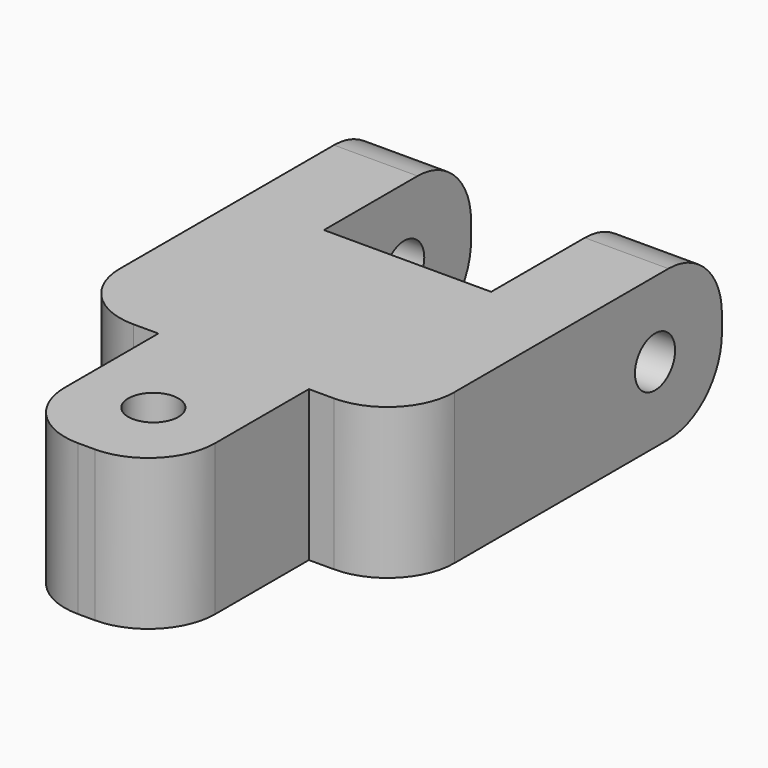
from build123d import *

# Parameters (mm, degrees)
F0_R     = 1.5
F1_DEPTH = 4.5
F2_R     = 1.5
F3_DEPTH = 20.001
F4_R     = 4


with BuildPart() as f1:
    # F0 (on Top) → F1 (new body, symmetric)
    with BuildSketch(Plane.XY):
        Polygon((-5, 17.5), (-10, 17.5), (-10, -6.5), (-4.5, -6.5), (-4.5, -17.5), (4.5, -17.5), (4.5, -6.5), (10, -6.5), (10, 17.5), (5, 17.5), (5, 6.5), (-5, 6.5), align=None)
        with Locations((0, -12.5)):
            Circle(F0_R, mode=Mode.SUBTRACT)
    extrude(amount=F1_DEPTH, both=True)

    # F2 (on face) → F3 (cut, through all)
    with BuildSketch(Plane.YZ.offset(10)):
        with Locations((12.5, 0)):
            Circle(F2_R)
    extrude(amount=-F3_DEPTH, mode=Mode.SUBTRACT)

    # F4
    f4_edges = [f1.edges().sort_by_distance(p)[0] for p in [
        (4.5, -17.5, 0),
        (-4.5, -17.5, 0),
        (7.5, 17.5, 4.5),
        (7.5, 17.5, -4.5),
        (-7.5, 17.5, -4.5),
        (-7.5, 17.5, 4.5),
        (10, -6.5, 0),
        (-10, -6.5, 0),
    ]]
    fillet(f4_edges, radius=F4_R)


solid = f1.part
